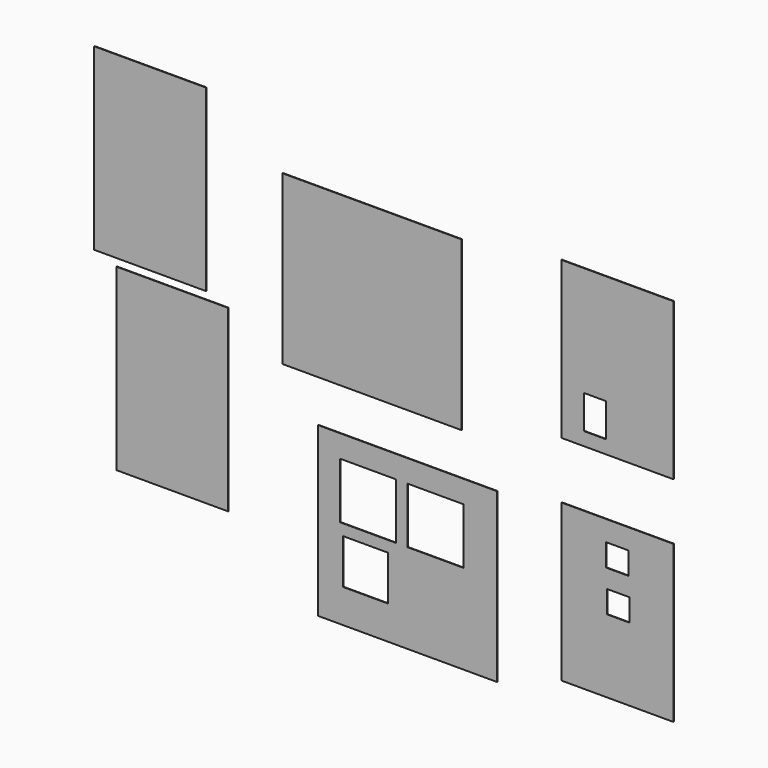
from build123d import *

# Parameters (mm, degrees)
F0_W     = 160
F0_H     = 150
F0_W_2   = 40.252022
F0_H_2   = 40
F0_W_3   = 50
F0_H_3   = 50
F0_W_4   = 100
F0_H_4   = 140
F0_W_5   = 20
F0_H_5   = 20
F0_H_6   = 30
F0_H_7   = 160
F1_DEPTH = 0.5


with BuildPart() as f1:
    # F0 (on Front) → F1 (new body)
    with BuildSketch(Plane.XZ):
        with Locations((-55.426337, -165.600558)):
            Rectangle(F0_W, F0_H)
        with Locations((-92.792649, -190.600558)):
            Rectangle(F0_W_2, F0_H_2, mode=Mode.SUBTRACT)
        with Locations((-90.426337, -135.600558)):
            Rectangle(F0_W_3, F0_H_3, mode=Mode.SUBTRACT)
        with Locations((-30.426337, -135.600558)):
            Rectangle(F0_W_3, F0_H_3, mode=Mode.SUBTRACT)
        with Locations((132.142994, -150.77734)):
            Rectangle(F0_W_4, F0_H_4)
        with Locations((132.918606, -145.487433)):
            Rectangle(F0_W_5, F0_H_5, mode=Mode.SUBTRACT)
        with Locations((131.957764, -108.975475)):
            Rectangle(F0_W_5, F0_H_5, mode=Mode.SUBTRACT)
        with Locations((132.142994, 40.032422)):
            Rectangle(F0_W_4, F0_H_4)
        with Locations((112.142994, -3.087167)):
            Rectangle(F0_W_5, F0_H_6, mode=Mode.SUBTRACT)
        with Locations((-87.065799, 22.111066)):
            Rectangle(F0_W, F0_H)
        with Locations((-265.387934, -104.568509)):
            Rectangle(F0_W_4, F0_H_7)
        with Locations((-285.087478, 62.220808)):
            Rectangle(F0_W_4, F0_H_7)
    extrude(amount=F1_DEPTH)


solid = f1.part
